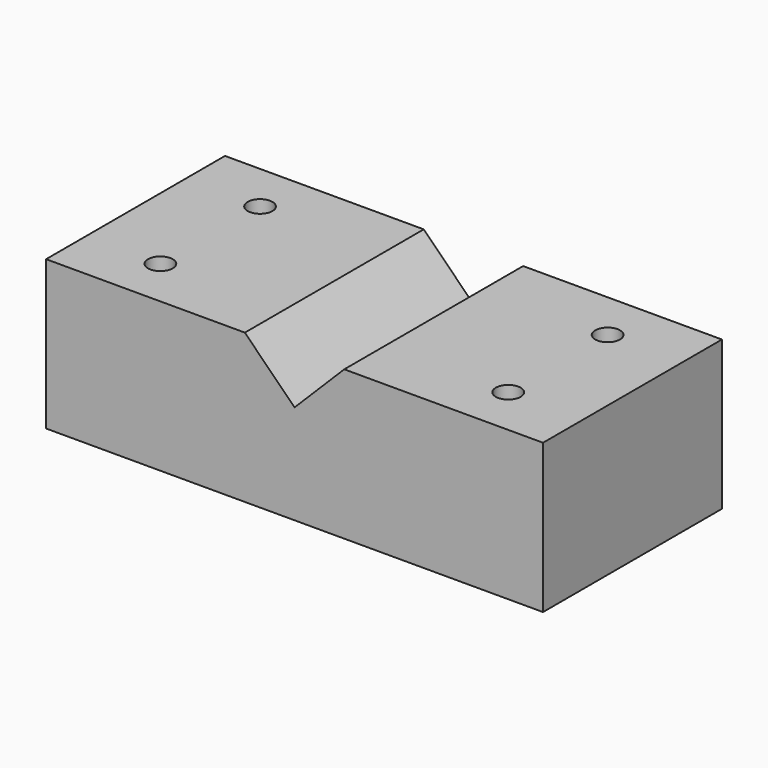
from build123d import *

# Parameters (mm, degrees)
F1_DEPTH  = 45
F3_D      = 5
F3_DEPTH  = 20
F3_TIP    = 1.5021515476
F5_D      = 5
F5_DEPTH  = 20
F5_TIP    = 1.5021515476
F8_D      = 5
F8_DEPTH  = 20
F8_TIP    = 1.5021515476
F10_D     = 5
F10_DEPTH = 20
F10_TIP   = 1.5021515476


with BuildPart() as f1:
    # F0 (on Front) → F1 (new body)
    with BuildSketch(Plane.XZ):
        Polygon((50, 20), (20, 20), (10, 20), (0, 10), (-10, 20), (-20, 20), (-50, 20), (-50, 0), (-50, -10), (50, -10), (50, 0), align=None)
    extrude(amount=F1_DEPTH)

    # F3
    with Locations(Plane.XY.offset(20)):
        with Locations((35, -35)):
            Hole(F3_D / 2, depth=F3_DEPTH)
            with Locations((0, 0, -(F3_DEPTH + F3_TIP / 2))):  # 118° drill point
                Cone(0, F3_D / 2, F3_TIP, mode=Mode.SUBTRACT)

    # F5
    with Locations(Plane.XY.offset(20)):
        with Locations((35, -10)):
            Hole(F5_D / 2, depth=F5_DEPTH)
            with Locations((0, 0, -(F5_DEPTH + F5_TIP / 2))):  # 118° drill point
                Cone(0, F5_D / 2, F5_TIP, mode=Mode.SUBTRACT)

    # F8
    with Locations(Plane.XY.offset(20)):
        with Locations((-35, -35)):
            Hole(F8_D / 2, depth=F8_DEPTH)
            with Locations((0, 0, -(F8_DEPTH + F8_TIP / 2))):  # 118° drill point
                Cone(0, F8_D / 2, F8_TIP, mode=Mode.SUBTRACT)

    # F10
    with Locations(Plane.XY.offset(20)):
        with Locations((-34.9459722638, -9.987832047)):
            Hole(F10_D / 2, depth=F10_DEPTH)
            with Locations((0, 0, -(F10_DEPTH + F10_TIP / 2))):  # 118° drill point
                Cone(0, F10_D / 2, F10_TIP, mode=Mode.SUBTRACT)


solid = f1.part
